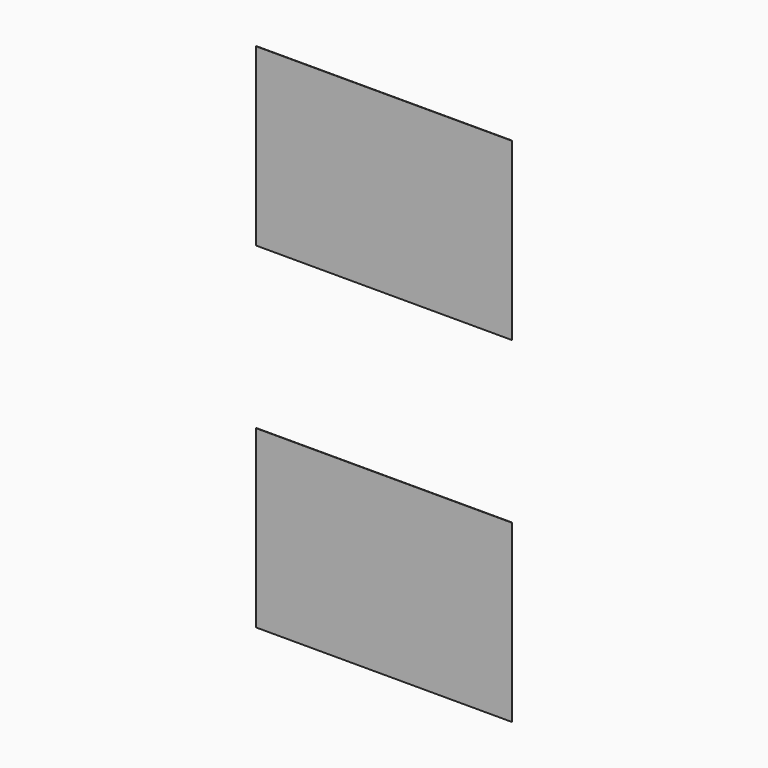
from build123d import *

# Parameters (mm, degrees)
F0_W     = 70
F0_H     = 48
F0_W_2   = 35
F1_DEPTH = 0.1


with BuildPart() as f1:
    # F0 (on Front) → F1 (new body)
    with BuildSketch(Plane.XZ):
        with Locations((0, 46)):
            Rectangle(F0_W, F0_H)
        with Locations((17.5, -46)):
            Rectangle(F0_W_2, F0_H)
        with Locations((-17.5, -46)):
            Rectangle(F0_W_2, F0_H)
    extrude(amount=F1_DEPTH)


solid = f1.part
